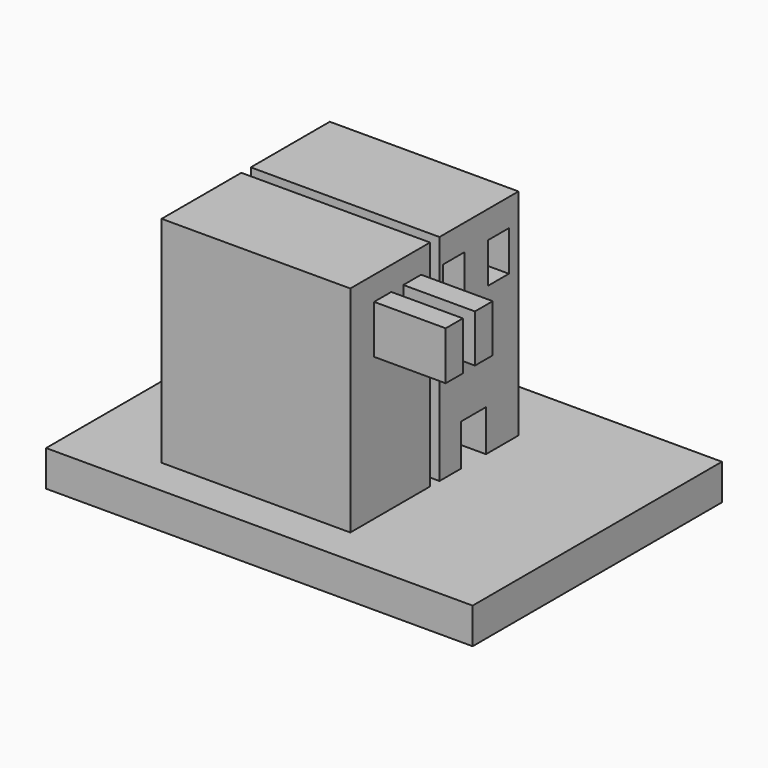
from build123d import *

# Parameters (mm, degrees)
F0_W     = 151.299566
F0_H     = 110.531528
F1_DEPTH = 12.7
F2_W     = 66.929346
F2_H     = 74.559733
F3_DEPTH = 76.2
F4_W     = 11.064054
F4_H     = 14.708814
F4_W_2   = 9.283632
F4_H_2   = 14.243379
F4_W_3   = 9.410804
F4_H_3   = 15.515111
F4_W_4   = 7.884726
F4_H_4   = 16.91401
F4_W_5   = 7.630382
F4_H_5   = 17.168358
F4_W_6   = 4.196709
F4_H_6   = 76.2
F5_DEPTH = 152.4
F6_W     = 7.630382
F6_H     = 17.168358
F6_W_2   = 7.884726
F6_H_2   = 16.91401
F7_DEPTH = 25.4


with BuildPart() as f1:
    # F0 (on Top) → F1 (new body)
    with BuildSketch(Plane.XY):
        with Locations((0, 0.109004)):
            Rectangle(F0_W, F0_H)
    extrude(amount=F1_DEPTH)

    # F2 (on face) → F3 (join)
    with BuildSketch(Plane.XY.offset(12.7)):
        with Locations((-11.663583, -4.79624)):
            Rectangle(F2_W, F2_H)
    extrude(amount=F3_DEPTH)

    # F4 (on face) → F5 (cut)
    with BuildSketch(Plane(origin=(-45.128256, 0, 0), x_dir=(0, -1, 0), z_dir=(-1, 0, 0))):
        with Locations((-12.526543, 20.054407)):
            Rectangle(F4_W, F4_H)
        with Locations((-23.590596, 72.046549)):
            Rectangle(F4_W_2, F4_H_2)
        with Locations((-3.815191, 71.91937)):
            Rectangle(F4_W_3, F4_H_3)
        with Locations((14.624897, 71.982957)):
            Rectangle(F4_W_4, F4_H_4)
        with Locations((27.72372, 71.855783)):
            Rectangle(F4_W_5, F4_H_5)
        with Locations((4.641815, 50.8)):
            Rectangle(F4_W_6, F4_H_6)
    extrude(amount=-F5_DEPTH, mode=Mode.SUBTRACT)


with BuildPart() as f7:
    # F6 (on face) → F7 (new body)
    with BuildSketch(Plane.YZ.offset(21.80109)):
        with Locations((-27.72372, 71.855783)):
            Rectangle(F6_W, F6_H)
        with Locations((-14.624897, 71.982957)):
            Rectangle(F6_W_2, F6_H_2)
    extrude(amount=F7_DEPTH)


solid = Compound([f1.part, f7.part])
